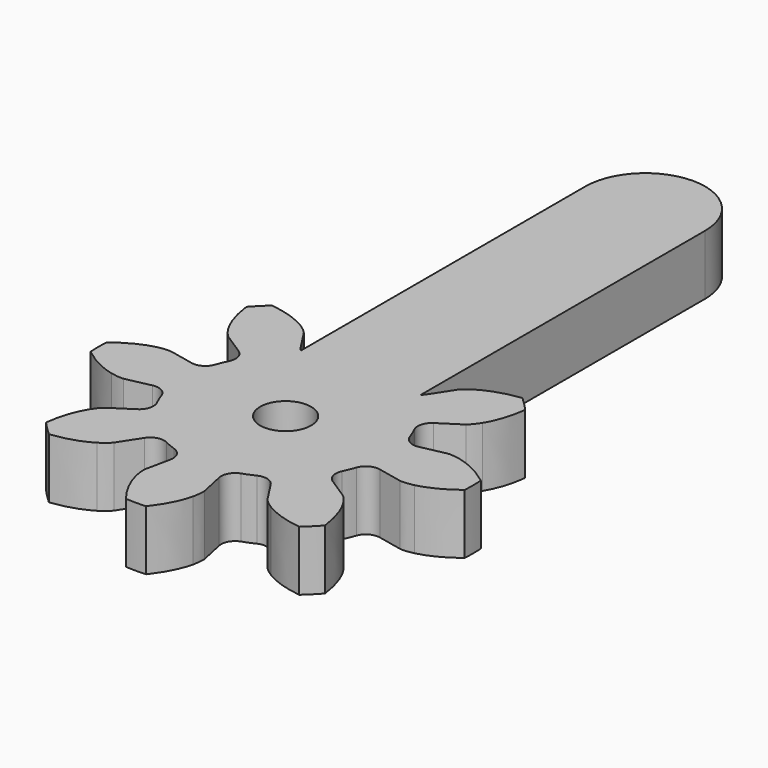
from build123d import *

# Parameters (mm, degrees)
CYLINDER008_R     = 1.7
CYLINDER008_DEPTH = 10
EXTRUDE019_DEPTH  = 4
EXTRUDE021_DEPTH  = 4


with BuildPart() as cylinder008:
    # Cylinder008 → Cylinder008 (new body)
    with BuildSketch(Plane(origin=(21, 0, -4), x_dir=(1, 0, 0), z_dir=(0, 0, 1))):
        Circle(CYLINDER008_R)
    extrude(amount=CYLINDER008_DEPTH)


with BuildPart() as extrude019:
    # InvoluteGear006 → Extrude019 (new body)
    with BuildSketch(Plane.XY):
        with BuildLine():
            Line((7.583619, -1.626335), (9.226112, -1.976129))
            add(Edge.make_bspline(
                [(9.226112, -1.976129), (9.323588, -1.988042), (9.615448, -2.006593), (10.112858, -1.891348)],
                knots=[0, 0, 0, 0, 1, 1, 1, 1], degree=3))
            add(Edge.make_bspline(
                [(10.112858, -1.891348), (10.701098, -1.749257), (11.528547, -1.419904), (12.486309, -0.674071)],
                knots=[0, 0, 0, 0, 1, 1, 1, 1], degree=3))
            ThreePointArc((12.486309, -0.674071), (12.504498, 0), (12.486309, 0.674071))
            add(Edge.make_bspline(
                [(12.486309, 0.674071), (11.528547, 1.419904), (10.701098, 1.749257), (10.112858, 1.891348)],
                knots=[0, 0, 0, 0, 1, 1, 1, 1], degree=3))
            add(Edge.make_bspline(
                [(10.112858, 1.891348), (9.615448, 2.006593), (9.323588, 1.988042), (9.226112, 1.976129)],
                knots=[0, 0, 0, 0, 1, 1, 1, 1], degree=3))
            Line((9.226112, 1.976129), (7.583619, 1.626335))
            ThreePointArc((7.583619, 1.626335), (6.928673, 1.725171), (6.502518, 2.232237))
            ThreePointArc((6.502518, 2.232237), (6.351672, 2.630949), (6.176404, 3.019545))
            ThreePointArc((6.176404, 3.019545), (6.119192, 3.679432), (6.512421, 4.212436))
            Line((6.512421, 4.212436), (7.92118, 5.126512))
            add(Edge.make_bspline(
                [(7.92118, 5.126512), (7.99853, 5.187015), (8.218024, 5.380273), (8.488255, 5.813485)],
                knots=[0, 0, 0, 0, 1, 1, 1, 1], degree=3))
            add(Edge.make_bspline(
                [(8.488255, 5.813485), (8.803731, 6.329908), (9.155937, 7.14789), (9.305795, 8.352514)],
                knots=[0, 0, 0, 0, 1, 1, 1, 1], degree=3))
            ThreePointArc((9.305795, 8.352514), (8.842015, 8.842015), (8.352514, 9.305795))
            add(Edge.make_bspline(
                [(8.352514, 9.305795), (7.14789, 9.155937), (6.329908, 8.803731), (5.813485, 8.488255)],
                knots=[0, 0, 0, 0, 1, 1, 1, 1], degree=3))
            add(Edge.make_bspline(
                [(5.813485, 8.488255), (5.380273, 8.218024), (5.187015, 7.99853), (5.126512, 7.92118)],
                knots=[0, 0, 0, 0, 1, 1, 1, 1], degree=3))
            Line((5.126512, 7.92118), (4.212436, 6.512421))
            ThreePointArc((4.212436, 6.512421), (3.679432, 6.119192), (3.019545, 6.176404))
            ThreePointArc((3.019545, 6.176404), (2.630949, 6.351672), (2.232237, 6.502518))
            ThreePointArc((2.232237, 6.502518), (1.725171, 6.928673), (1.626335, 7.583619))
            Line((1.626335, 7.583619), (1.976129, 9.226112))
            add(Edge.make_bspline(
                [(1.976129, 9.226112), (1.988042, 9.323588), (2.006593, 9.615448), (1.891348, 10.112858)],
                knots=[0, 0, 0, 0, 1, 1, 1, 1], degree=3))
            add(Edge.make_bspline(
                [(1.891348, 10.112858), (1.749257, 10.701098), (1.419904, 11.528547), (0.674071, 12.486309)],
                knots=[0, 0, 0, 0, 1, 1, 1, 1], degree=3))
            ThreePointArc((0.674071, 12.486309), (0, 12.504498), (-0.674071, 12.486309))
            add(Edge.make_bspline(
                [(-0.674071, 12.486309), (-1.419904, 11.528547), (-1.749257, 10.701098), (-1.891348, 10.112858)],
                knots=[0, 0, 0, 0, 1, 1, 1, 1], degree=3))
            add(Edge.make_bspline(
                [(-1.891348, 10.112858), (-2.006593, 9.615448), (-1.988042, 9.323588), (-1.976129, 9.226112)],
                knots=[0, 0, 0, 0, 1, 1, 1, 1], degree=3))
            Line((-1.976129, 9.226112), (-1.626335, 7.583619))
            ThreePointArc((-1.626335, 7.583619), (-1.725171, 6.928673), (-2.232237, 6.502518))
            ThreePointArc((-2.232237, 6.502518), (-2.630949, 6.351672), (-3.019545, 6.176404))
            ThreePointArc((-3.019545, 6.176404), (-3.679432, 6.119192), (-4.212436, 6.512421))
            Line((-4.212436, 6.512421), (-5.126512, 7.92118))
            add(Edge.make_bspline(
                [(-5.126512, 7.92118), (-5.187015, 7.99853), (-5.380273, 8.218024), (-5.813485, 8.488255)],
                knots=[0, 0, 0, 0, 1, 1, 1, 1], degree=3))
            add(Edge.make_bspline(
                [(-5.813485, 8.488255), (-6.329908, 8.803731), (-7.14789, 9.155937), (-8.352514, 9.305795)],
                knots=[0, 0, 0, 0, 1, 1, 1, 1], degree=3))
            ThreePointArc((-8.352514, 9.305795), (-8.842015, 8.842015), (-9.305795, 8.352514))
            add(Edge.make_bspline(
                [(-9.305795, 8.352514), (-9.155937, 7.14789), (-8.803731, 6.329908), (-8.488255, 5.813485)],
                knots=[0, 0, 0, 0, 1, 1, 1, 1], degree=3))
            add(Edge.make_bspline(
                [(-8.488255, 5.813485), (-8.218024, 5.380273), (-7.99853, 5.187015), (-7.92118, 5.126512)],
                knots=[0, 0, 0, 0, 1, 1, 1, 1], degree=3))
            Line((-7.92118, 5.126512), (-6.512421, 4.212436))
            ThreePointArc((-6.512421, 4.212436), (-6.119192, 3.679432), (-6.176404, 3.019545))
            ThreePointArc((-6.176404, 3.019545), (-6.351672, 2.630949), (-6.502518, 2.232237))
            ThreePointArc((-6.502518, 2.232237), (-6.928673, 1.725171), (-7.583619, 1.626335))
            Line((-7.583619, 1.626335), (-9.226112, 1.976129))
            add(Edge.make_bspline(
                [(-9.226112, 1.976129), (-9.323588, 1.988042), (-9.615448, 2.006593), (-10.112858, 1.891348)],
                knots=[0, 0, 0, 0, 1, 1, 1, 1], degree=3))
            add(Edge.make_bspline(
                [(-10.112858, 1.891348), (-10.701098, 1.749257), (-11.528547, 1.419904), (-12.486309, 0.674071)],
                knots=[0, 0, 0, 0, 1, 1, 1, 1], degree=3))
            ThreePointArc((-12.486309, 0.674071), (-12.504498, 0), (-12.486309, -0.674071))
            add(Edge.make_bspline(
                [(-12.486309, -0.674071), (-11.528547, -1.419904), (-10.701098, -1.749257), (-10.112858, -1.891348)],
                knots=[0, 0, 0, 0, 1, 1, 1, 1], degree=3))
            add(Edge.make_bspline(
                [(-10.112858, -1.891348), (-9.615448, -2.006593), (-9.323588, -1.988042), (-9.226112, -1.976129)],
                knots=[0, 0, 0, 0, 1, 1, 1, 1], degree=3))
            Line((-9.226112, -1.976129), (-7.583619, -1.626335))
            ThreePointArc((-7.583619, -1.626335), (-6.928673, -1.725171), (-6.502518, -2.232237))
            ThreePointArc((-6.502518, -2.232237), (-6.351672, -2.630949), (-6.176404, -3.019545))
            ThreePointArc((-6.176404, -3.019545), (-6.119192, -3.679432), (-6.512421, -4.212436))
            Line((-6.512421, -4.212436), (-7.92118, -5.126512))
            add(Edge.make_bspline(
                [(-7.92118, -5.126512), (-7.99853, -5.187015), (-8.218024, -5.380273), (-8.488255, -5.813485)],
                knots=[0, 0, 0, 0, 1, 1, 1, 1], degree=3))
            add(Edge.make_bspline(
                [(-8.488255, -5.813485), (-8.803731, -6.329908), (-9.155937, -7.14789), (-9.305795, -8.352514)],
                knots=[0, 0, 0, 0, 1, 1, 1, 1], degree=3))
            ThreePointArc((-9.305795, -8.352514), (-8.842015, -8.842015), (-8.352514, -9.305795))
            add(Edge.make_bspline(
                [(-8.352514, -9.305795), (-7.14789, -9.155937), (-6.329908, -8.803731), (-5.813485, -8.488255)],
                knots=[0, 0, 0, 0, 1, 1, 1, 1], degree=3))
            add(Edge.make_bspline(
                [(-5.813485, -8.488255), (-5.380273, -8.218024), (-5.187015, -7.99853), (-5.126512, -7.92118)],
                knots=[0, 0, 0, 0, 1, 1, 1, 1], degree=3))
            Line((-5.126512, -7.92118), (-4.212436, -6.512421))
            ThreePointArc((-4.212436, -6.512421), (-3.679432, -6.119192), (-3.019545, -6.176404))
            ThreePointArc((-3.019545, -6.176404), (-2.630949, -6.351672), (-2.232237, -6.502518))
            ThreePointArc((-2.232237, -6.502518), (-1.725171, -6.928673), (-1.626335, -7.583619))
            Line((-1.626335, -7.583619), (-1.976129, -9.226112))
            add(Edge.make_bspline(
                [(-1.976129, -9.226112), (-1.988042, -9.323588), (-2.006593, -9.615448), (-1.891348, -10.112858)],
                knots=[0, 0, 0, 0, 1, 1, 1, 1], degree=3))
            add(Edge.make_bspline(
                [(-1.891348, -10.112858), (-1.749257, -10.701098), (-1.419904, -11.528547), (-0.674071, -12.486309)],
                knots=[0, 0, 0, 0, 1, 1, 1, 1], degree=3))
            ThreePointArc((-0.674071, -12.486309), (0, -12.504498), (0.674071, -12.486309))
            add(Edge.make_bspline(
                [(0.674071, -12.486309), (1.419904, -11.528547), (1.749257, -10.701098), (1.891348, -10.112858)],
                knots=[0, 0, 0, 0, 1, 1, 1, 1], degree=3))
            add(Edge.make_bspline(
                [(1.891348, -10.112858), (2.006593, -9.615448), (1.988042, -9.323588), (1.976129, -9.226112)],
                knots=[0, 0, 0, 0, 1, 1, 1, 1], degree=3))
            Line((1.976129, -9.226112), (1.626335, -7.583619))
            ThreePointArc((1.626335, -7.583619), (1.725171, -6.928673), (2.232237, -6.502518))
            ThreePointArc((2.232237, -6.502518), (2.630949, -6.351672), (3.019545, -6.176404))
            ThreePointArc((3.019545, -6.176404), (3.679432, -6.119192), (4.212436, -6.512421))
            Line((4.212436, -6.512421), (5.126512, -7.92118))
            add(Edge.make_bspline(
                [(5.126512, -7.92118), (5.187015, -7.99853), (5.380273, -8.218024), (5.813485, -8.488255)],
                knots=[0, 0, 0, 0, 1, 1, 1, 1], degree=3))
            add(Edge.make_bspline(
                [(5.813485, -8.488255), (6.329908, -8.803731), (7.14789, -9.155937), (8.352514, -9.305795)],
                knots=[0, 0, 0, 0, 1, 1, 1, 1], degree=3))
            ThreePointArc((8.352514, -9.305795), (8.842015, -8.842015), (9.305795, -8.352514))
            add(Edge.make_bspline(
                [(9.305795, -8.352514), (9.155937, -7.14789), (8.803731, -6.329908), (8.488255, -5.813485)],
                knots=[0, 0, 0, 0, 1, 1, 1, 1], degree=3))
            add(Edge.make_bspline(
                [(8.488255, -5.813485), (8.218024, -5.380273), (7.99853, -5.187015), (7.92118, -5.126512)],
                knots=[0, 0, 0, 0, 1, 1, 1, 1], degree=3))
            Line((7.92118, -5.126512), (6.512421, -4.212436))
            ThreePointArc((6.512421, -4.212436), (6.119192, -3.679432), (6.176404, -3.019545))
            ThreePointArc((6.176404, -3.019545), (6.351672, -2.630949), (6.502518, -2.232237))
            ThreePointArc((6.502518, -2.232237), (6.928673, -1.725171), (7.583619, -1.626335))
        make_face()
    extrude(amount=EXTRUDE019_DEPTH)


with BuildPart() as extrude019_1:
    # Extrude019 placement: moved
    add(extrude019.part.moved(Location((21, 0, 0))))


with BuildPart() as cut007:
    # Sketch012 → Extrude021 (new body)
    with BuildSketch(Plane.XY):
        with BuildLine():
            ThreePointArc((-4, 0), (0, -4), (4, 0))
            Line((4, 0), (4, 30))
            ThreePointArc((4, 30), (0, 34), (-4, 30))
            Line((-4, 0), (-4, 30))
        make_face()
    extrude(amount=EXTRUDE021_DEPTH)


with BuildPart() as cut007_1:
    # Extrude021 placement: moved
    add(cut007.part.moved(Location((21, 0, 0))))

    # Fusion005: union Extrude019
    add(extrude019_1.part)

    # Cut007: cut Cylinder008
    add(cylinder008.part, mode=Mode.SUBTRACT)


with BuildPart() as cut007_2:
    # Cut007 placement: moved
    add(cut007_1.part.moved(Location((0, 0, 31))))


solid = cut007_2.part
